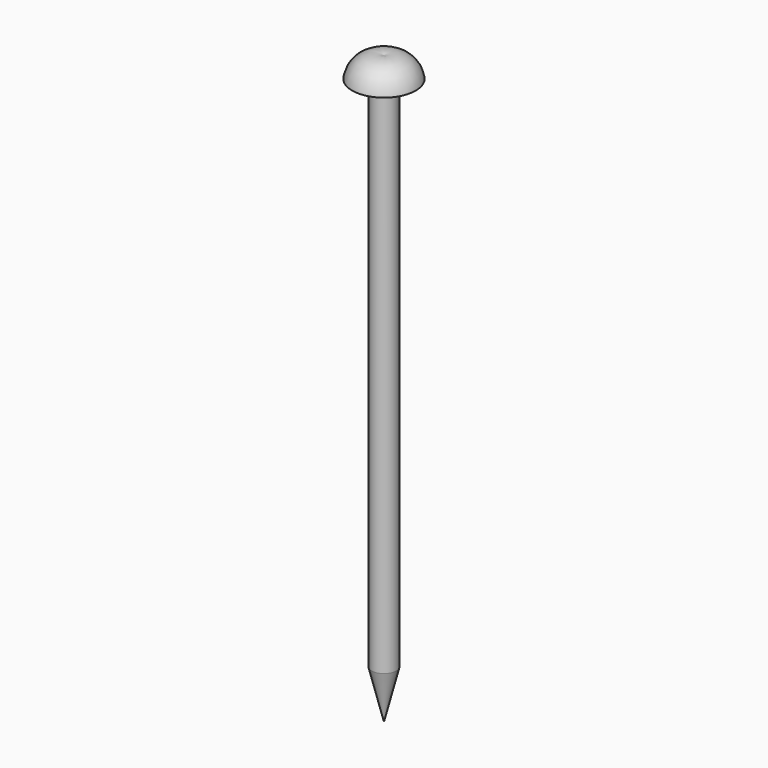
from build123d import *


with BuildPart() as f1:
    # F0 (on Front) → F1 (revolve)
    with BuildSketch(Plane.XZ):
        Polygon((-0.79375, -24.76012), (0, -27.93512), (0, -24.76012), align=None)
        with BuildLine():
            Line((-0.79375, 8.813147), (-0.79375, -24.76012))
            Line((-0.79375, -24.76012), (0, -24.76012))
            Line((0, -24.76012), (0, 10.16488))
            ThreePointArc((0, 10.16488), (-1.354162, 9.981064), (-2.06375, 8.813147))
            Line((-2.06375, 8.813147), (-0.79375, 8.813147))
        make_face()
    revolve(axis=Axis((0, 0, -8.942439), (0, 0, -1)))


solid = f1.part
